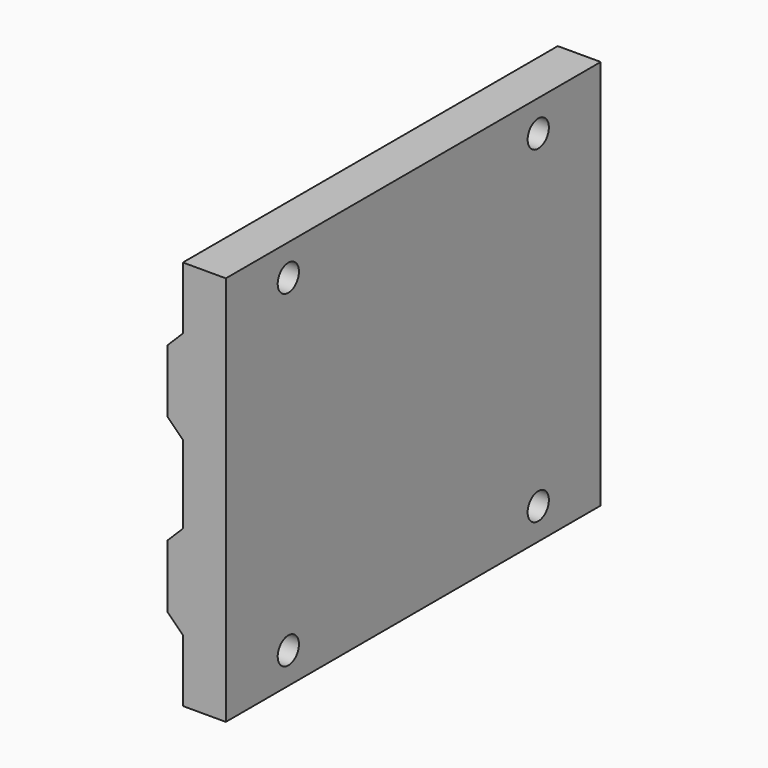
from build123d import *

# Parameters (mm, degrees)
F1_DEPTH  = 76.2
F3_D      = 4.318
F3_DEPTH  = 12.7
F3_TIP    = 1.2972580765
F5_R      = 3.96875
F5_R_2    = 2.159
F6_DEPTH  = 2.54
F8_D      = 4.318
F8_DEPTH  = 12.7
F8_TIP    = 1.2972580765
F9_R      = 3.96875
F9_R_2    = 2.159
F10_DEPTH = 2.54


with BuildPart() as f1:
    # F0 (on Front) → F1 (new body)
    with BuildSketch(Plane.XZ):
        Polygon((6.985, 50.8), (6.985, 40.64), (9.525, 38.1), (9.525, 25.4), (6.985, 22.86), (6.985, 12.7), (9.525, 10.16), (9.525, 0), (16.51, 0), (16.51, 63.5), (9.525, 63.5), (9.525, 53.34), align=None)
    extrude(amount=F1_DEPTH)

    # F3
    with Locations(Plane(origin=(9.525, 0, 0), x_dir=(0, -1, 0), z_dir=(-1, 0, 0))):
        with Locations((12.7, 5.08), (63.5, 5.08)):
            Hole(F3_D / 2, depth=F3_DEPTH)
            with Locations((0, 0, -(F3_DEPTH + F3_TIP / 2))):  # 118° drill point
                Cone(0, F3_D / 2, F3_TIP, mode=Mode.SUBTRACT)

    # F5 (on face) → F6 (cut)
    with BuildSketch(Plane(origin=(9.525, 0, 0), x_dir=(0, -1, 0), z_dir=(-1, 0, 0))):
        with Locations((63.5, 5.08)):
            Circle(F5_R)
        with Locations((63.5, 5.08)):
            Circle(F5_R_2, mode=Mode.SUBTRACT)
        with Locations((12.7, 5.08)):
            Circle(F5_R)
        with Locations((12.7, 5.08)):
            Circle(F5_R_2, mode=Mode.SUBTRACT)
    extrude(amount=-F6_DEPTH, mode=Mode.SUBTRACT)

    # F8
    with Locations(Plane(origin=(9.525, 0, 0), x_dir=(0, -1, 0), z_dir=(-1, 0, 0))):
        with Locations((12.7, 58.42), (63.5, 58.42)):
            Hole(F8_D / 2, depth=F8_DEPTH)
            with Locations((0, 0, -(F8_DEPTH + F8_TIP / 2))):  # 118° drill point
                Cone(0, F8_D / 2, F8_TIP, mode=Mode.SUBTRACT)

    # F9 (on face) → F10 (cut)
    with BuildSketch(Plane(origin=(9.525, 0, 0), x_dir=(0, -1, 0), z_dir=(-1, 0, 0))):
        with Locations((12.7, 58.42)):
            Circle(F9_R)
        with Locations((12.7, 58.42)):
            Circle(F9_R_2, mode=Mode.SUBTRACT)
        with Locations((63.5, 58.42)):
            Circle(F9_R)
        with Locations((63.5, 58.42)):
            Circle(F9_R_2, mode=Mode.SUBTRACT)
    extrude(amount=-F10_DEPTH, mode=Mode.SUBTRACT)


solid = f1.part
